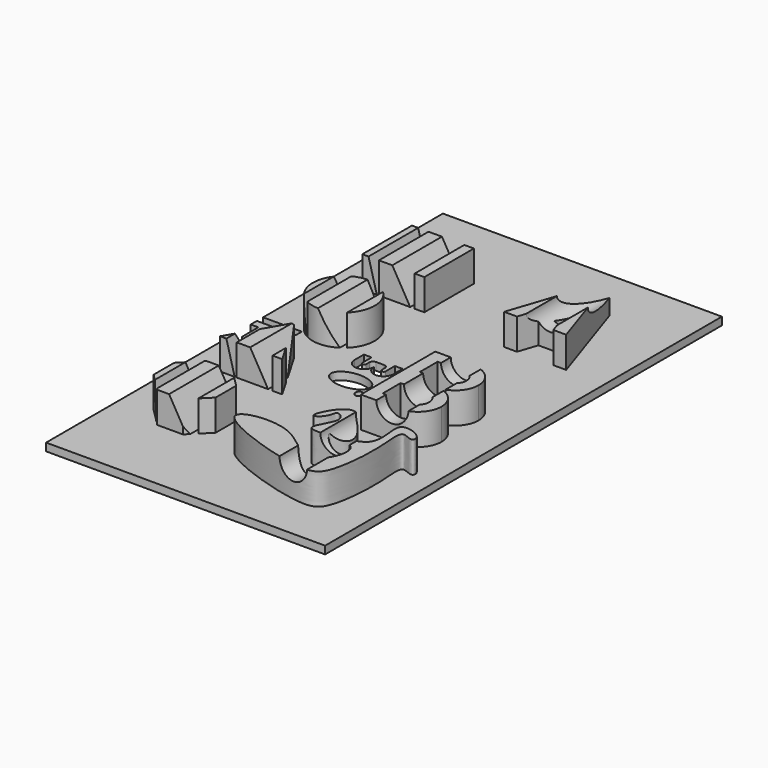
from build123d import *

# Parameters (mm, degrees)
F0_W     = 57.15
F0_H     = 101.6
F1_DEPTH = 1.5875
F2_W     = 12.7
F2_H     = 12.7
F2_R     = 6.35
F3_DEPTH = 6.35
F5_DEPTH = 101.6010001
F6_R     = 0.79375
F6_W     = 7.9375
F6_H     = 1.5875
F7_DEPTH = 1.5875
F9_DEPTH = 101.6010001


with BuildPart() as f1:
    # F0 (on Top) → F1 (new body)
    with BuildSketch(Plane.XY):
        with Locations((-14.3067278326, 6.35)):
            Rectangle(F0_W, F0_H)
    extrude(amount=F1_DEPTH)

    # F2 (on face) → F3 (join)
    with BuildSketch(Plane.XY.offset(1.5875)):
        with Locations((-30.1817278326, 34.925)):
            Rectangle(F2_W, F2_H)
        Polygon((0, 46.2165167193), (-6.35, 27.1665167193), (-3.7263937817, 27.1665167193), (-2.4341627424, 31.0432098371), (0, 31.0432098371), (2.4341627424, 31.0432098371), (3.7263937817, 27.1665167193), (6.35, 27.1665167193), align=None)
        Polygon((-1.4816666667, 33.9007098371), (0, 38.3457098371), (1.4816666667, 33.9007098371), (0, 33.9007098371), align=None, mode=Mode.SUBTRACT)
        with BuildLine():
            Line((1.5722401997, 9.525), (-6.35, 9.525))
            Line((-6.35, 9.525), (-6.35, -9.525))
            Line((-6.35, -9.525), (1.5722401997, -9.525))
            ThreePointArc((1.5722401997, -9.525), (4.9506265516, -8.1256265551), (6.35, -4.7472402047))
            ThreePointArc((6.35, -4.7472402047), (5.1361559476, -1.5651821784), (2.1114054762, 0))
            ThreePointArc((2.1114054762, 0), (5.1361559445, 1.5651821749), (6.35, 4.7472401954))
            ThreePointArc((6.35, 4.7472401954), (4.9506265549, 8.1256265518), (1.5722401997, 9.525))
        make_face()
        with BuildLine():
            Line((-3.8610286, -7.0360286), (-3.8610286, -2.4584517994))
            Line((-3.8610286, -2.4584517994), (1.5722401997, -2.4584517994))
            ThreePointArc((1.5722401997, -2.4584517994), (3.8610286, -4.7472401997), (1.5722401997, -7.0360286))
            Line((1.5722401997, -7.0360286), (-3.8610286, -7.0360286))
        make_face(mode=Mode.SUBTRACT)
        with BuildLine():
            Line((1.5722401997, 2.4584517994), (-3.8610286, 2.4584517994))
            Line((-3.8610286, 2.4584517994), (-3.8610286, 7.0360286))
            Line((-3.8610286, 7.0360286), (1.5722401997, 7.0360286))
            ThreePointArc((1.5722401997, 7.0360286), (3.8610286, 4.7472401997), (1.5722401997, 2.4584517994))
        make_face(mode=Mode.SUBTRACT)
        with Locations((-30.1817278326, 15.875)):
            Circle(F2_R)
        Polygon((-30.1817278326, 3.175), (-36.5317278326, -7.8235226281), (-23.8317278326, -7.8235226281), align=None)
        Polygon((-23.8317278326, -24.8552561211), (-23.8317278326, -19.5947438789), (-27.5514717115, -15.875), (-32.8119839536, -15.875), (-36.5317278326, -19.5947438789), (-36.5317278326, -24.8552561211), (-32.8119839536, -28.575), (-27.5514717115, -28.575), align=None)
        with BuildLine():
            add(Edge.make_bspline(
                [(-6.0568256304, -18.6845213175), (-5.597596358, -17.8845646312), (-5.7350948702, -16.0798323541), (-2.1496555195, -18.560923544), (-9.0730720818, -25.8440747383), (7.3973120439, -21.4121858304), (1.1353089679, -35.9545573506), (-6.4349380891, -23.9194229321), (-25.9262998821, -27.4329474094), (2.6299805044, -36.925916099), (6.7978739754, -33.5279696822), (7.7804551506, -22.0737564199), (6.4559676033, -14.7216943836), (9.9830646668, -17.3206190296), (10.3699868443, -14.8195443514), (3.2196753116, -12.3260783718), (8.5156256149, -23.807750081), (-6.1092023016, -22.8766888702), (0.6155047139, -19.0629004775), (-4.4053014288, -11.4427627341), (-9.334366168, -21.5402141796), (-6.528684991, -19.5064790481), (-6.0568256304, -18.6845213175)],
                knots=[0, 0, 0, 0, 0.0293485394, 0.0606424206, 0.1080226052, 0.1708525115, 0.2263674096, 0.2951812483, 0.3588033385, 0.4536987677, 0.4992176922, 0.5707168605, 0.6185622465, 0.6495945391, 0.6728810126, 0.7156726867, 0.7714917902, 0.8301407024, 0.8708178223, 0.9176130832, 0.9698442937, 1, 1, 1, 1], degree=3))
        make_face()
    extrude(amount=F3_DEPTH)

    # F4 (on face) → F5 (cut, through all)
    with BuildSketch(Plane.XZ.offset(44.45)):
        Polygon((-33.1287730887, 12.7), (-36.5317278326, 12.7), (-33.5541424317, 1.5875), (-33.1287730887, 1.5875), align=None)
        Polygon((-25.79642467, 12.7), (-33.1287730887, 12.7), (-26.7129682223, 1.5875), (-25.79642467, 1.5875), align=None)
    extrude(amount=-F5_DEPTH, mode=Mode.SUBTRACT)

    # F6 (on face) → F7 (cut, through all)
    with BuildSketch(Plane.XY.offset(1.5875)):
        with BuildLine():
            ThreePointArc((-22.2442278326, 8.73125), (-20.2598528326, 6.746875), (-18.2754778326, 8.73125))
            ThreePointArc((-18.2754778326, 8.73125), (-16.2911028326, 6.746875), (-14.3067278326, 8.73125))
            Line((-14.3067278326, 8.73125), (-14.3067278326, 11.1125))
            Line((-14.3067278326, 11.1125), (-15.8942278326, 11.1125))
            Line((-15.8942278326, 11.1125), (-15.8942278326, 8.73125))
            ThreePointArc((-15.8942278326, 8.73125), (-16.2911028326, 8.334375), (-16.6879778326, 8.73125))
            Line((-16.6879778326, 8.73125), (-16.6879778326, 9.525))
            ThreePointArc((-16.6879778326, 9.525), (-16.920461825, 10.0862660076), (-17.4817278326, 10.31875))
            Line((-17.4817278326, 10.31875), (-19.0692278326, 10.31875))
            ThreePointArc((-19.0692278326, 10.31875), (-19.6304938401, 10.0862660076), (-19.8629778326, 9.525))
            Line((-19.8629778326, 9.525), (-19.8629778326, 8.73125))
            ThreePointArc((-19.8629778326, 8.73125), (-20.2598528326, 8.334375), (-20.6567278326, 8.73125))
            Line((-20.6567278326, 8.73125), (-20.6567278326, 11.1125))
            Line((-20.6567278326, 11.1125), (-22.2442278326, 11.1125))
            Line((-22.2442278326, 11.1125), (-22.2442278326, 8.73125))
        make_face()
        with BuildLine():
            add(Edge.make_bspline(
                [(-14.2737902895, 2.778125), (-14.2737902895, 6.9025709855), (-20.2763216041, 4.8403479928), (-26.2788529187, 2.778125), (-20.2763216041, 0.7159020072), (-14.2737902895, -1.3463209855), (-14.2737902895, 2.778125)],
                knots=[0, 0, 0, 2.0943951024, 2.0943951024, 4.1887902048, 4.1887902048, 6.2831853072, 6.2831853072, 6.2831853072], degree=2, weights=[1, 0.5, 1, 0.5, 1, 0.5, 1]))
        make_face()
        with Locations((-14.3067278326, 0)):
            Circle(F6_R)
        with Locations((-38.9129778326, 10.31875)):
            Rectangle(F6_W, F6_H)
        with BuildLine():
            Line((-41.3102033844, 7.9375), (-42.8817278326, 7.9375))
            Line((-42.8817278326, 7.9375), (-42.8817278326, 3.96875))
            ThreePointArc((-42.8817278326, 3.96875), (-40.5004778326, 1.5875), (-38.1192278326, 3.96875))
            Line((-38.1192278326, 3.96875), (-38.1192278326, 6.35))
            Line((-38.1192278326, 6.35), (-36.5317278326, 6.35))
            Line((-36.5317278326, 6.35), (-36.5317278326, 1.5875))
            Line((-36.5317278326, 1.5875), (-34.9442278326, 1.5875))
            Line((-34.9442278326, 1.5875), (-34.9442278326, 7.9375))
            Line((-34.9442278326, 7.9375), (-39.6907522807, 7.9375))
            Line((-39.6907522807, 7.9375), (-39.6907522807, 3.96875))
            ThreePointArc((-39.6907522807, 3.96875), (-40.5004778326, 3.1590244482), (-41.3102033844, 3.96875))
            Line((-41.3102033844, 3.96875), (-41.3102033844, 7.9375))
        make_face()
        with Locations((-34.9442278326, 0)):
            Circle(F6_R)
    extrude(amount=-F7_DEPTH, mode=Mode.SUBTRACT)

    # F8 (on face) → F9 (cut, through all)
    with BuildSketch(Plane(origin=(0, 57.15, 0), x_dir=(-1, 0, 0), z_dir=(0, 1, 0))):
        with BuildLine():
            ThreePointArc((-3.175, 7.9375), (0, 4.7625), (3.175, 7.9375))
            Line((3.175, 7.9375), (-3.175, 7.9375))
        make_face()
    extrude(amount=-F9_DEPTH, mode=Mode.SUBTRACT)


solid = f1.part
